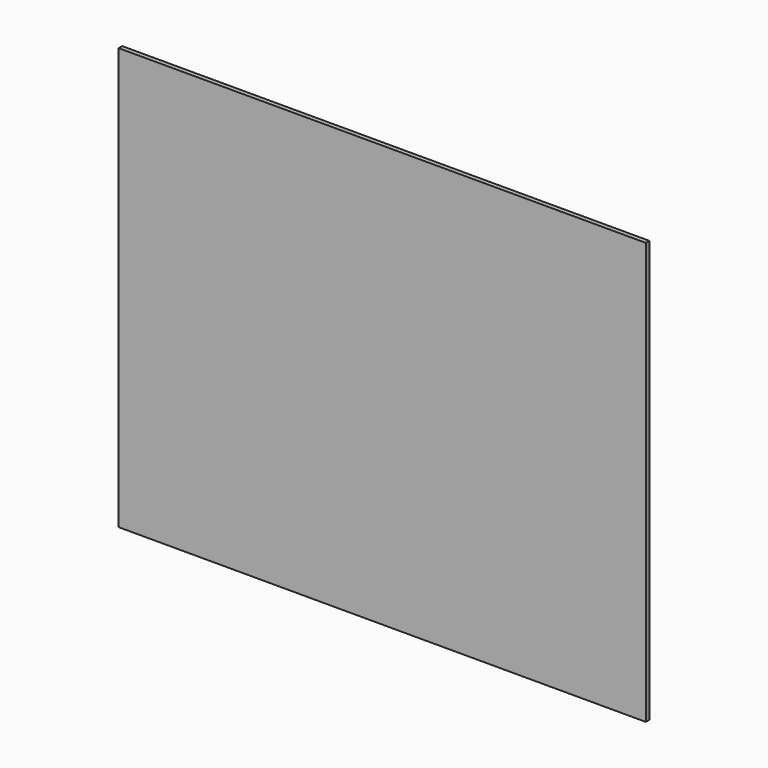
from build123d import *

# Parameters (mm, degrees)
SKETCH_W  = 475
SKETCH_H  = 380
PAD_DEPTH = 4


with BuildPart() as part:
    # Sketch → Pad (new body)
    with BuildSketch(Plane.XZ):
        with Locations((-237.5, 190)):
            Rectangle(SKETCH_W, SKETCH_H)
    extrude(amount=PAD_DEPTH)


solid = part.part
